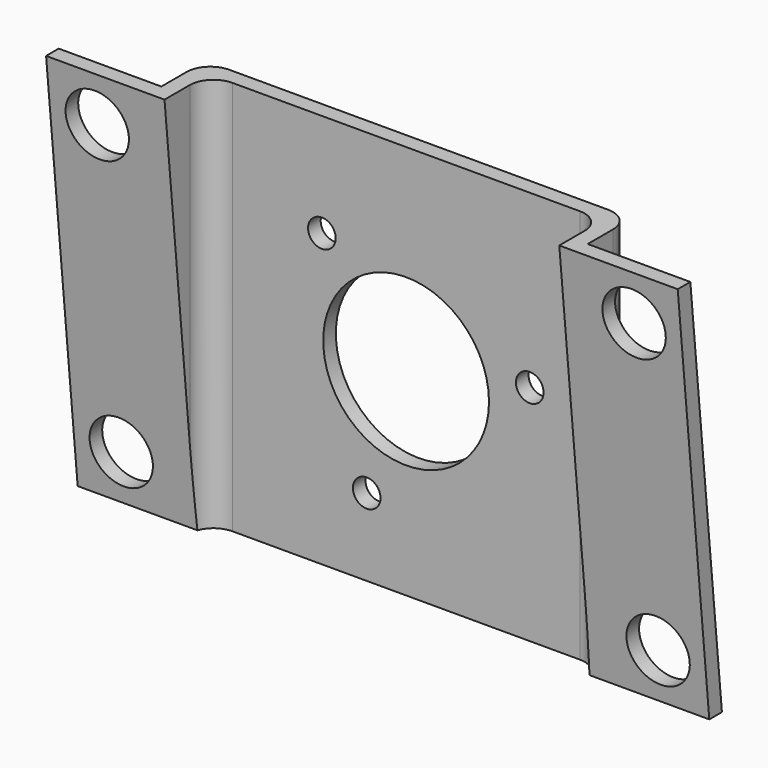
from build123d import *

# Parameters (mm, degrees)
F0_W     = 50
F0_H     = 50
F0_R     = 1.75
F0_R_2   = 10.5
F1_DEPTH = 2
F3_START = 25
F3_DEPTH = 2
F5_START = -25
F5_DEPTH = 2
F7_START = 25
F7_DEPTH = 15
F8_START = -25
F8_DEPTH = 15
F10_D    = 8
F11_R    = 3


with BuildPart() as f1:
    # F0 (on Front) → F1 (new body)
    with BuildSketch(Plane.XZ):
        Rectangle(F0_W, F0_H)
        with Locations((-4.9920080166, -15.2013109949)):
            Circle(F0_R, mode=Mode.SUBTRACT)
        with Locations((-10.6687174841, 11.9238612557)):
            Circle(F0_R, mode=Mode.SUBTRACT)
        Circle(F0_R_2, mode=Mode.SUBTRACT)
        with Locations((15.6607255007, 3.2774497392)):
            Circle(F0_R, mode=Mode.SUBTRACT)
    extrude(amount=F1_DEPTH)

    # F2 (on Right) → F3 (join)
    with BuildSketch(Plane.YZ.offset(F3_START)):
        Polygon((0, 25), (-2, 25), (-7, 25), (-2, -25), (0, -25), align=None)
    extrude(amount=F3_DEPTH)

    # F4 (on Right) → F5 (join)
    with BuildSketch(Plane.YZ.offset(F5_START)):
        Polygon((0, -25), (0, 25), (-2, 25), (-7, 25), (-2, -25), align=None)
    extrude(amount=-F5_DEPTH)

    # F6 (on Right) → F7 (join)
    with BuildSketch(Plane.YZ.offset(F7_START)):
        Polygon((-2, -25), (-7, 25), (-9, 25), (-4, -25), align=None)
    extrude(amount=F7_DEPTH)

    # F6 (on Right) → F8 (join)
    with BuildSketch(Plane.YZ.offset(F8_START)):
        Polygon((-2, -25), (-7, 25), (-9, 25), (-4, -25), align=None)
    extrude(amount=-F8_DEPTH)

    # F10 (through all)
    with Locations(Plane(origin=(0, 0, 0), x_dir=(1, 0, 0), z_dir=(0, 1, 0))):
        with Locations((-34, -19), (-34, 19), (34, 19), (34, -19)):
            Hole(F10_D / 2)

    # F11
    f11_edges = [f1.edges().sort_by_distance(p)[0] for p in [
        (-27, 0, 0),
        (27, 0, 0),
        (25, -2, 0),
        (-25, -2, 0),
    ]]
    fillet(f11_edges, radius=F11_R)


solid = f1.part
